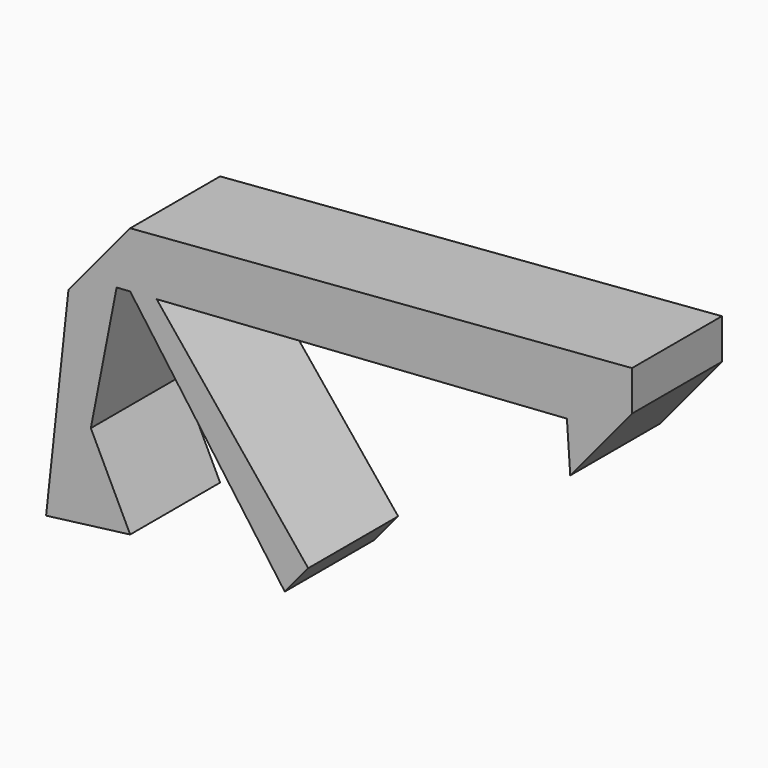
from build123d import *

# Parameters (mm, degrees)
F1_DEPTH = 25.4
F2_DEPTH = 25.4


with BuildPart() as f1:
    # F0 (on Front) → F1 (new body)
    with BuildSketch(Plane.XZ):
        Polygon((-174.676194787, -63.6054873466), (-136.6764605045, -58.7648972869), (-154.4505208731, -22.218702361), (-142.8054571152, 37.529643625), (-136.6764605045, 37.9512919024), (-124.7218182419, 38.7737192321), (60.676984489, 51.5283495188), (90.0961384177, 81.2006369233), (-136.6764605045, 63.0854219198), (-164.5756051188, 29.4337924282), align=None)
        Polygon((-124.7218182419, 38.7737192321), (-136.6764605045, 37.9512919024), (-66.8059885502, -58.7648972869), (-56.2220695239, -45.9986950765), align=None)
        Polygon((90.0961384177, 63.0854219198), (90.0961384177, 81.2006369233), (60.676984489, 51.5283495188), (62.1969938034, 29.4337924282), align=None)
    extrude(amount=F1_DEPTH)

    # F2 (add): a face of the model
    f2_faces = [f1.faces().sort_by_distance(p)[0] for p in [
        (-166.6256944507, -25.4, -17.4115576837),
    ]]
    extrude(f2_faces, amount=F2_DEPTH)


solid = f1.part
